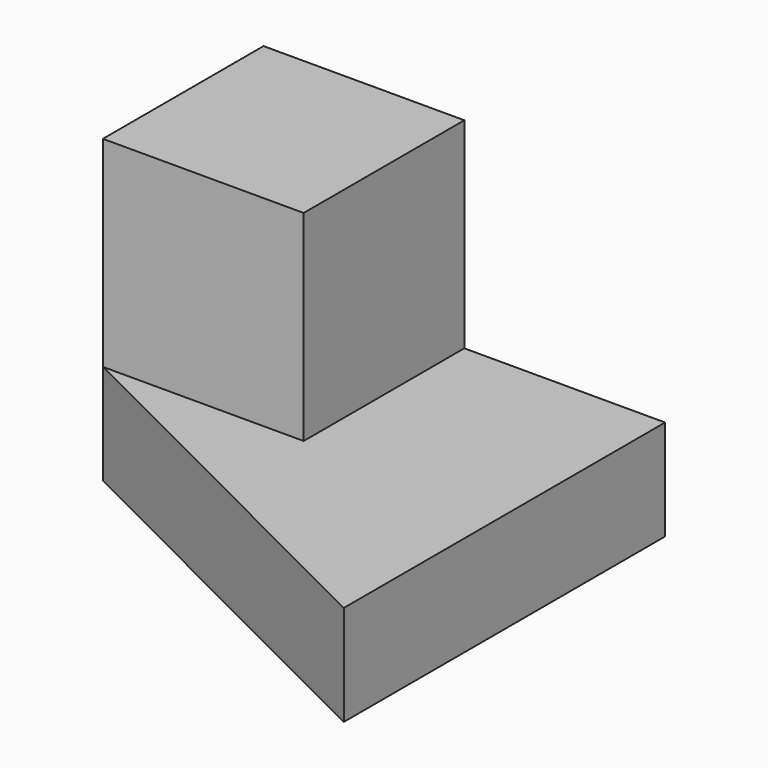
from build123d import *

# Parameters (mm, degrees)
F0_W     = 40
F0_H     = 30
F1_DEPTH = 40
F3_DEPTH = 30
F5_DEPTH = 20


with BuildPart() as f1:
    # F0 (on Front) → F1 (new body)
    with BuildSketch(Plane.XZ):
        with Locations((20, 15)):
            Rectangle(F0_W, F0_H)
    extrude(amount=F1_DEPTH)

    # F2 (on face) → F3 (cut)
    with BuildSketch(Plane.XY.offset(30)):
        Polygon((0, -40), (40, -40), (0, -20), align=None)
    extrude(amount=-F3_DEPTH, mode=Mode.SUBTRACT)

    # F4 (on face) → F5 (cut)
    with BuildSketch(Plane.XY.offset(30)):
        Polygon((40, 0), (20, 0), (20, -20), (0, -20), (40, -40), align=None)
    extrude(amount=-F5_DEPTH, mode=Mode.SUBTRACT)


solid = f1.part
